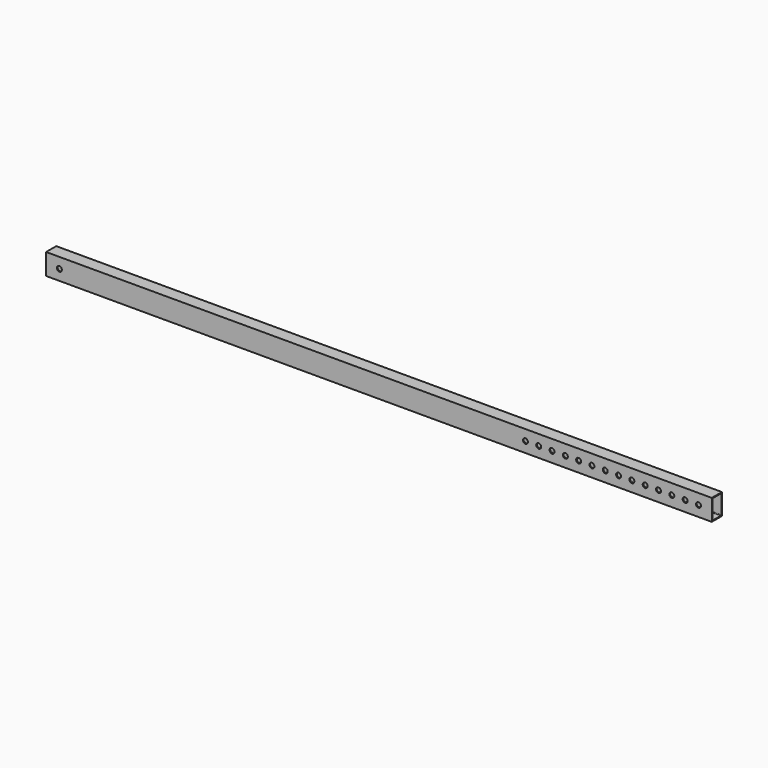
from build123d import *

# Parameters (mm, degrees)
F0_W     = 38.1
F0_H     = 63.5
F1_DEPTH = 2000
F2_R     = 7.5
F3_DEPTH = 38.1
F5_DEPTH = 38.1


with BuildPart() as f1:
    # F0 (on Right) → F1 (new body)
    with BuildSketch(Plane.YZ):
        Rectangle(F0_W, F0_H)
        with BuildLine():
            Line((-14.55, 29.25), (14.55, 29.25))
            ThreePointArc((14.55, 29.25), (15.964214, 28.664214), (16.55, 27.25))
            Line((16.55, 27.25), (16.55, -27.25))
            ThreePointArc((16.55, -27.25), (15.964214, -28.664214), (14.55, -29.25))
            Line((14.55, -29.25), (-14.55, -29.25))
            ThreePointArc((-14.55, -29.25), (-15.964214, -28.664214), (-16.55, -27.25))
            Line((-16.55, -27.25), (-16.55, 27.25))
            ThreePointArc((-16.55, 27.25), (-15.964214, 28.664214), (-14.55, 29.25))
        make_face(mode=Mode.SUBTRACT)
    extrude(amount=F1_DEPTH)

    # F2 (on face) → F3 (cut, through all)
    with BuildSketch(Plane.XZ.offset(19.05)):
        with Locations((40, 0)):
            Circle(F2_R)
    extrude(amount=-F3_DEPTH, mode=Mode.SUBTRACT)

    # F4 (on face) → F5 (cut, through all)
    with BuildSketch(Plane.XZ.offset(19.05)):
        with BuildLine():
            Line((1952.5, 0), (1967.5, 0))
            ThreePointArc((1967.5, 0), (1960, 7.5), (1952.5, 0))
        make_face()
        with BuildLine():
            ThreePointArc((1432.5, 0), (1440, -7.5), (1447.5, 0))
            Line((1447.5, 0), (1432.5, 0))
        make_face()
        with BuildLine():
            Line((1432.5, 0), (1447.5, 0))
            ThreePointArc((1447.5, 0), (1440, 7.5), (1432.5, 0))
        make_face()
        with BuildLine():
            ThreePointArc((1472.5, 0), (1480, -7.5), (1487.5, 0))
            Line((1487.5, 0), (1472.5, 0))
        make_face()
        with BuildLine():
            Line((1472.5, 0), (1487.5, 0))
            ThreePointArc((1487.5, 0), (1480, 7.5), (1472.5, 0))
        make_face()
        with BuildLine():
            ThreePointArc((1512.5, 0), (1520, -7.5), (1527.5, 0))
            Line((1527.5, 0), (1512.5, 0))
        make_face()
        with BuildLine():
            Line((1512.5, 0), (1527.5, 0))
            ThreePointArc((1527.5, 0), (1520, 7.5), (1512.5, 0))
        make_face()
        with BuildLine():
            ThreePointArc((1552.5, 0), (1560, -7.5), (1567.5, 0))
            Line((1567.5, 0), (1552.5, 0))
        make_face()
        with BuildLine():
            Line((1552.5, 0), (1567.5, 0))
            ThreePointArc((1567.5, 0), (1560, 7.5), (1552.5, 0))
        make_face()
        with BuildLine():
            ThreePointArc((1592.5, 0), (1600, -7.5), (1607.5, 0))
            Line((1607.5, 0), (1592.5, 0))
        make_face()
        with BuildLine():
            Line((1592.5, 0), (1607.5, 0))
            ThreePointArc((1607.5, 0), (1600, 7.5), (1592.5, 0))
        make_face()
        with BuildLine():
            ThreePointArc((1632.5, 0), (1640, -7.5), (1647.5, 0))
            Line((1647.5, 0), (1632.5, 0))
        make_face()
        with BuildLine():
            Line((1632.5, 0), (1647.5, 0))
            ThreePointArc((1647.5, 0), (1640, 7.5), (1632.5, 0))
        make_face()
        with BuildLine():
            ThreePointArc((1672.5, 0), (1680, -7.5), (1687.5, 0))
            Line((1687.5, 0), (1672.5, 0))
        make_face()
        with BuildLine():
            Line((1672.5, 0), (1687.5, 0))
            ThreePointArc((1687.5, 0), (1680, 7.5), (1672.5, 0))
        make_face()
        with BuildLine():
            ThreePointArc((1712.5, 0), (1720, -7.5), (1727.5, 0))
            Line((1727.5, 0), (1712.5, 0))
        make_face()
        with BuildLine():
            Line((1712.5, 0), (1727.5, 0))
            ThreePointArc((1727.5, 0), (1720, 7.5), (1712.5, 0))
        make_face()
        with BuildLine():
            ThreePointArc((1752.5, 0), (1760, -7.5), (1767.5, 0))
            Line((1767.5, 0), (1752.5, 0))
        make_face()
        with BuildLine():
            Line((1752.5, 0), (1767.5, 0))
            ThreePointArc((1767.5, 0), (1760, 7.5), (1752.5, 0))
        make_face()
        with BuildLine():
            ThreePointArc((1792.5, 0), (1800, -7.5), (1807.5, 0))
            Line((1807.5, 0), (1792.5, 0))
        make_face()
        with BuildLine():
            Line((1792.5, 0), (1807.5, 0))
            ThreePointArc((1807.5, 0), (1800, 7.5), (1792.5, 0))
        make_face()
        with BuildLine():
            ThreePointArc((1832.5, 0), (1840, -7.5), (1847.5, 0))
            Line((1847.5, 0), (1832.5, 0))
        make_face()
        with BuildLine():
            Line((1832.5, 0), (1847.5, 0))
            ThreePointArc((1847.5, 0), (1840, 7.5), (1832.5, 0))
        make_face()
        with BuildLine():
            ThreePointArc((1872.5, 0), (1880, -7.5), (1887.5, 0))
            Line((1887.5, 0), (1872.5, 0))
        make_face()
        with BuildLine():
            Line((1872.5, 0), (1887.5, 0))
            ThreePointArc((1887.5, 0), (1880, 7.5), (1872.5, 0))
        make_face()
        with BuildLine():
            ThreePointArc((1912.5, 0), (1920, -7.5), (1927.5, 0))
            Line((1927.5, 0), (1912.5, 0))
        make_face()
        with BuildLine():
            Line((1912.5, 0), (1927.5, 0))
            ThreePointArc((1927.5, 0), (1920, 7.5), (1912.5, 0))
        make_face()
        with BuildLine():
            ThreePointArc((1952.5, 0), (1960, -7.5), (1967.5, 0))
            Line((1967.5, 0), (1952.5, 0))
        make_face()
    extrude(amount=-F5_DEPTH, mode=Mode.SUBTRACT)


solid = f1.part
